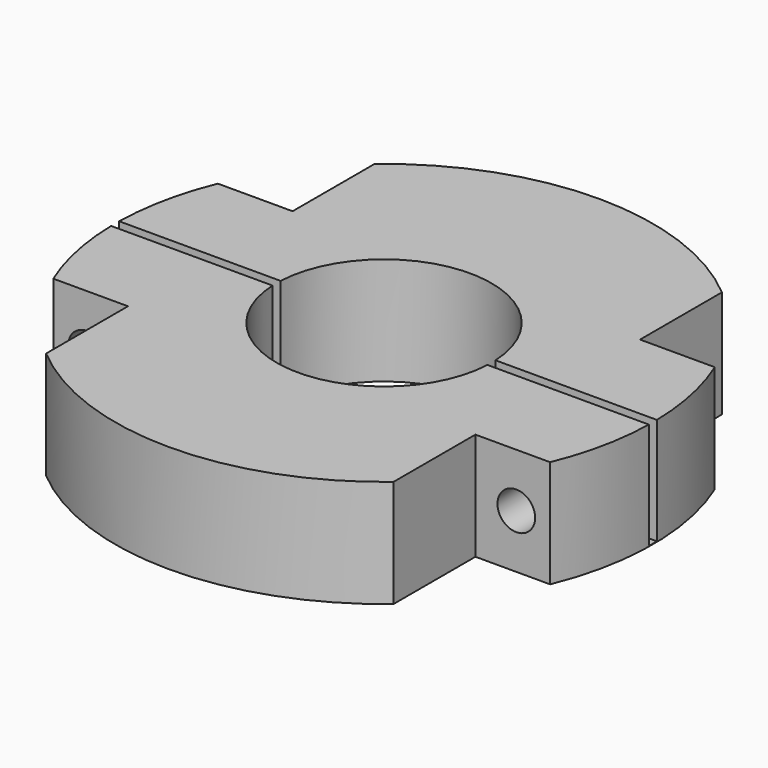
from build123d import *

# Parameters (mm, degrees)
SKETCH_R        = 20
SKETCH_R_2      = 8
PAD_DEPTH       = 8
SKETCH001_R     = 2.4
SKETCH001_R_2   = 2.3
SKETCH001_R_3   = 1.630743
SKETCH001_R_4   = 1.492514
SKETCH001_R_5   = 2.2
SKETCH001_R_6   = 1.821083
POCKET_DEPTH    = 6
SKETCH002_R     = 19.1322603564
SKETCH002_R_2   = 8.424409
PAD001_DEPTH    = 1.5
SKETCH003_W     = 43.022533
SKETCH003_H     = 0.75
POCKET001_DEPTH = 7.95
SKETCH007_W     = 7.6375744751
SKETCH007_H     = 10.86069433
SKETCH007_W_2   = 8.2446434751
SKETCH007_H_2   = 12.05515533
SKETCH007_W_3   = 8.5299164751
SKETCH007_H_3   = 10.94123533
SKETCH007_W_4   = 11.8328734751
SKETCH007_H_4   = 10.66832833
POCKET002_DEPTH = 8.001
SKETCH008_R     = 1.4
POCKET003_DEPTH = 27.65392667


with BuildPart() as part:
    # Sketch → Pad (new body)
    with BuildSketch(Plane.XY):
        Circle(SKETCH_R)
        Circle(SKETCH_R_2, mode=Mode.SUBTRACT)
    extrude(amount=PAD_DEPTH)

    # Sketch001 (on Face4 of Pad) → Pocket (cut)
    with BuildSketch(Plane.XY.offset(8)):
        with Locations((0, 14)):
            Circle(SKETCH001_R)
        with Locations((-7.5, 12.9903810568)):
            Circle(SKETCH001_R_2)
        with Locations((-17.083683, 37.568653)):
            Circle(SKETCH001_R_3)
        with Locations((9.573956, 39.229813)):
            Circle(SKETCH001_R_4)
        with Locations((9.1772229816, 13.1064327086)):
            Circle(SKETCH001_R_5)
        with Locations((30.140682, 32.901588)):
            Circle(SKETCH001_R_6)
    pocket = extrude(amount=-POCKET_DEPTH, mode=Mode.SUBTRACT)

    # Mirrored: Pocket across Sketch001 H_Axis
    add(pocket.mirror(Plane(origin=(0, 0, 8), x_dir=(0, 0, 1), z_dir=(0, 1, 0))), mode=Mode.SUBTRACT)

    # Sketch002 → Pad001 (join)
    with BuildSketch(Plane.XY.offset(8)):
        Circle(SKETCH002_R)
        Circle(SKETCH002_R_2, mode=Mode.SUBTRACT)
    extrude(amount=-PAD001_DEPTH)

    # Sketch003 → Pocket001 (cut)
    with BuildSketch(Plane.XY.offset(8)):
        with Locations((-0.7364995, 0)):
            Rectangle(SKETCH003_W, SKETCH003_H)
    extrude(amount=-POCKET001_DEPTH, mode=Mode.SUBTRACT)

    # Sketch007 → Pocket002 (cut, through all)
    with BuildSketch(Plane.XY.offset(8)):
        with Locations((-16.7398847624, -13.083273835)):
            Rectangle(SKETCH007_W, SKETCH007_H)
        with Locations((-17.0434192624, 13.680504335)):
            Rectangle(SKETCH007_W_2, SKETCH007_H_2)
        with Locations((17.1860557624, 13.123544335)):
            Rectangle(SKETCH007_W_3, SKETCH007_H_3)
        with Locations((18.8375342624, -12.987090835)):
            Rectangle(SKETCH007_W_4, SKETCH007_H_4)
    extrude(amount=-POCKET002_DEPTH, mode=Mode.SUBTRACT)

    # Sketch008 (on Face19 of Pocket002) → Pocket003 (cut, through all)
    with BuildSketch(Plane(origin=(0, 7.65292667, 0), x_dir=(-1, 0, 0), z_dir=(0, 1, 0))):
        with Locations((-15.963433, 4)):
            Circle(SKETCH008_R)
        with Locations((15.963433, 4)):
            Circle(SKETCH008_R)
    extrude(amount=-POCKET003_DEPTH, mode=Mode.SUBTRACT)


solid = part.part
